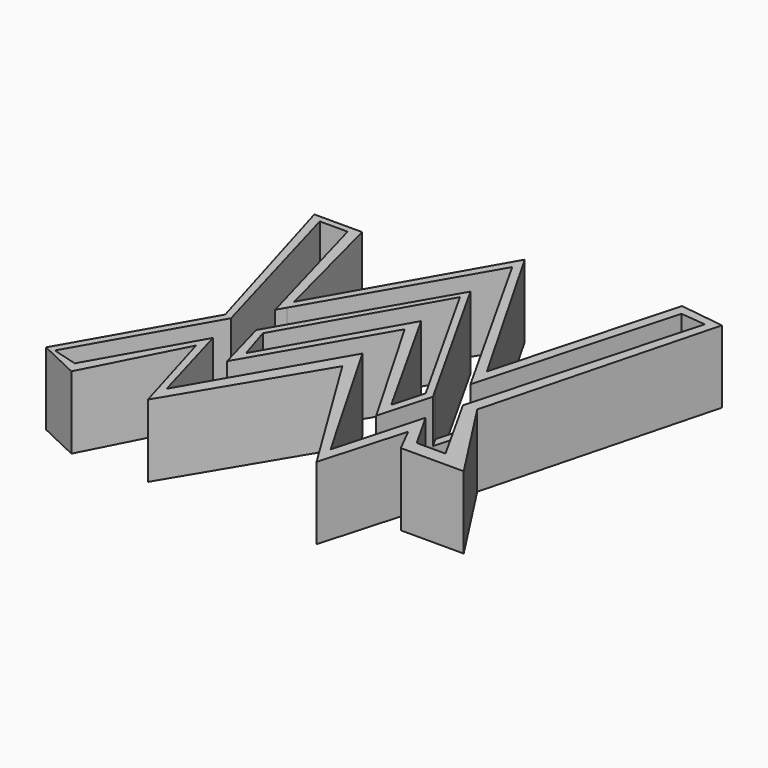
from build123d import *

# Parameters (mm, degrees)
F1_DEPTH = 12.7
F2_DEPTH = 5.08


with BuildPart() as f1:
    # F0 (on Top) → F1 (new body)
    with BuildSketch(Plane.XY):
        Polygon((-20.5210409951, -7.9736062909), (-33.5891470313, -30.8521799743), (-26.4399256557, -34.2453196645), (-17.9045014083, -17.60189794), (-13.0402278155, -34.2453196645), (1.5525938943, -9.8924823105), (16.5106914937, -34.2453196645), (20.7147076726, -19.4195080549), (22.9475684464, -23.8377209753), (33.9693464339, -23.8377209753), (23.9674728364, -8.3760125563), (34.5444940031, 31.9929458201), (26.6998670995, 33.0506488681), (17.9738253355, 1.2314473279), (1.3111314686, 30.3455736883), (-15.5200697482, 0.8788800333), (-21.1611483246, 22.8261984885), (-29.5346230268, 22.8261984885), align=None)
        Polygon((-27.5588259101, -32.1146920323), (-32.0720225573, -30.8284889907), (-19.2177128047, -8.3242123947), (-27.6659652591, 21.6798372567), (-22.7880645543, 21.6798372567), (-16.0654503852, -2.5953715667), (-15.1892008377, -1.078940688), (1.3588338625, 27.5589637458), (17.5643963544, -1.3110835766), (18.5902547091, -3.1386399642), (28.0608907342, 31.214652583), (32.5249694288, 30.7627916336), (21.6690897942, -8.6306408048), (28.7532173097, -21.3059335947), (23.7063355744, -21.3059335947), (19.992057234, -14.7041222081), (15.7005265355, -30.1691573113), (1.3588338625, -5.2477028221), (-13.042463921, -30.1347691566), (-17.4419488758, -14.6160917357), (-17.4973364919, -14.3933231011), align=None, mode=Mode.SUBTRACT)
    extrude(amount=F1_DEPTH)



with BuildPart() as f1b:
    # F0 (on Top) → F1, piece 2 (new body)
    with BuildSketch(Plane.XY):
        Polygon((-13.348367419, -7.1639683075), (-14.3312010466, -8.8577069897), (-14.3479155377, -8.8865114376), (-11.6898040163, -18.593637318), (1.3742336305, 3.9824927226), (14.3406316638, -18.4643995017), (16.8852303177, -9.2208087444), (15.8592973644, -7.3935184654), (1.4307427919, 18.3051954955), align=None)
        Polygon((-11.1567043809, -15.1034206777), (-13.0402278155, -9.0519273654), (1.3387252224, 16.1215702828), (15.4962225923, -9.0943634049), (13.9230203858, -14.6423914203), (1.6215687562, 7.2677372167), align=None, mode=Mode.SUBTRACT)
    extrude(amount=F1_DEPTH)


with BuildPart() as f1_1:
    add(f1.part)

    add(f1b.part)  # F2 merges F1b
    # F0 (on Top) → F2 (join)
    with BuildSketch(Plane.XY):
        Polygon((-15.1892008377, -1.078940688), (-16.0654503852, -2.5953715667), (-14.3312010466, -8.8577069897), (-13.348367419, -7.1639683075), align=None)
        Polygon((18.5902547091, -3.1386399642), (17.5643963544, -1.3110835766), (15.8592973644, -7.3935184654), (16.8852303177, -9.2208087444), align=None)
    extrude(amount=F2_DEPTH)


solid = f1_1.part
